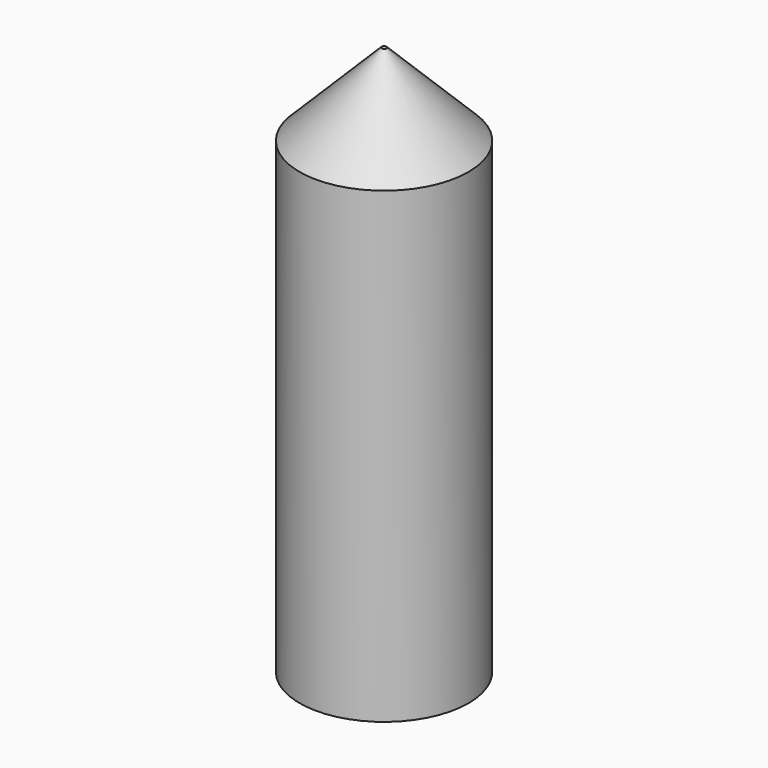
from build123d import *

# Parameters (mm, degrees)
F0_R     = 5.232212
F1_DEPTH = 34.036
F2_SIZE  = 5.08
F3_W     = 7.82259
F3_H     = 3.568198
F4_DEPTH = 25.4


with BuildPart() as f1:
    # F0 (on Top) → F1 (new body)
    with BuildSketch(Plane.XY):
        Circle(F0_R)
    extrude(amount=F1_DEPTH)

    # F2
    f2_edges = [f1.edges().sort_by_distance(p)[0] for p in [
        (-5.232212, 0, 34.036),
    ]]
    chamfer(f2_edges, length=F2_SIZE)

    # F3 (on Front) → F4 (cut)
    with BuildSketch(Plane.XZ):
        with Locations((0, 24.497494)):
            Rectangle(F3_W, F3_H)
    extrude(amount=-F4_DEPTH, mode=Mode.SUBTRACT)


solid = f1.part
